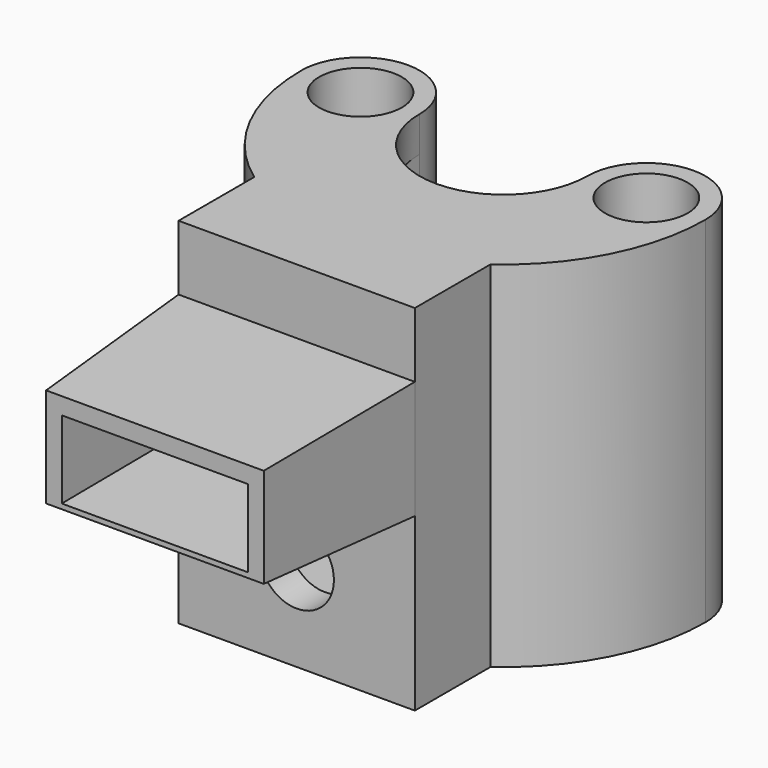
from build123d import *

# Parameters (mm, degrees)
PAD_DEPTH       = 30
SKETCH001_W     = 14.2
SKETCH001_H     = 24
POCKET_DEPTH    = 19
SKETCH002_R     = 3.15
POCKET001_DEPTH = 5
SKETCH003_W     = 14.2
SKETCH003_H     = 5
POCKET002_DEPTH = 5
SKETCH004_W     = 20
SKETCH004_H     = 10
SKETCH004_W_2   = 14.2
SKETCH004_H_2   = 5
PAD001_DEPTH    = 15
PAD001_TAPER    = 3
SKETCH005_R     = 3.5
POCKET003_DEPTH = 15


with BuildPart() as part:
    # Sketch → Pad (new body)
    with BuildSketch(Plane.XY):
        with BuildLine():
            ThreePointArc((-7.1, 0), (-12.1, 5), (-17.1, 0))
            ThreePointArc((-17.1, 0), (-15.221859, -7.791341), (-10, -13.871193))
            Line((-10, -13.871193), (-10, -21.871193))
            Line((-10, -21.871193), (10, -21.871193))
            Line((10, -13.871193), (10, -21.871193))
            ThreePointArc((10, -13.871193), (15.221859, -7.791341), (17.1, 0))
            ThreePointArc((17.1, 0), (12.1, 5), (7.1, 0))
            ThreePointArc((-7.1, 0), (0, -7.1), (7.1, 0))
        make_face()
        Polygon((-9.5, -1.501111), (-9.5, 1.501111), (-12.1, 3.002221), (-14.7, 1.501111), (-14.7, -1.501111), (-12.1, -3.002221), align=None, mode=Mode.SUBTRACT)
        Polygon((14.7, -1.501111), (14.7, 1.501111), (12.1, 3.002221), (9.5, 1.501111), (9.5, -1.501111), (12.1, -3.002221), align=None, mode=Mode.SUBTRACT)
    extrude(amount=PAD_DEPTH)

    # Sketch001 (on DatumPlane) → Pocket (cut)
    with BuildSketch(Plane.XZ.offset(-0.128807)):
        with Locations((0, 15)):
            Rectangle(SKETCH001_W, SKETCH001_H)
    extrude(amount=POCKET_DEPTH, mode=Mode.SUBTRACT)

    # Sketch002 (on Face13 of Pocket) → Pocket001 (cut)
    with BuildSketch(Plane.XZ.offset(21.871193)):
        with Locations((0, 7.5)):
            Circle(SKETCH002_R)
    extrude(amount=-POCKET001_DEPTH, mode=Mode.SUBTRACT)

    # Sketch003 (on Face10 of Pocket001) → Pocket002 (cut)
    with BuildSketch(Plane(origin=(0, -18.871193, 0), x_dir=(-1, 0, 0), z_dir=(0, 1, 0))):
        with Locations((0, 19)):
            Rectangle(SKETCH003_W, SKETCH003_H)
    extrude(amount=-POCKET002_DEPTH, mode=Mode.SUBTRACT)

    # Sketch004 (on Face15 of Pocket002) → Pad001 (join)
    with BuildSketch(Plane.XZ.offset(21.871193)):
        with Locations((0, 19.5)):
            Rectangle(SKETCH004_W, SKETCH004_H)
        with Locations((0, 19)):
            Rectangle(SKETCH004_W_2, SKETCH004_H_2, mode=Mode.SUBTRACT)
    extrude(amount=PAD001_DEPTH, taper=PAD001_TAPER)

    # Sketch005 (on Face7 of Pad001) → Pocket003 (cut)
    with BuildSketch(Plane.XY.offset(30)):
        with Locations((-12.1, 0)):
            Circle(SKETCH005_R)
        with Locations((12.1, 0)):
            Circle(SKETCH005_R)
    extrude(amount=-POCKET003_DEPTH, mode=Mode.SUBTRACT)


solid = part.part
